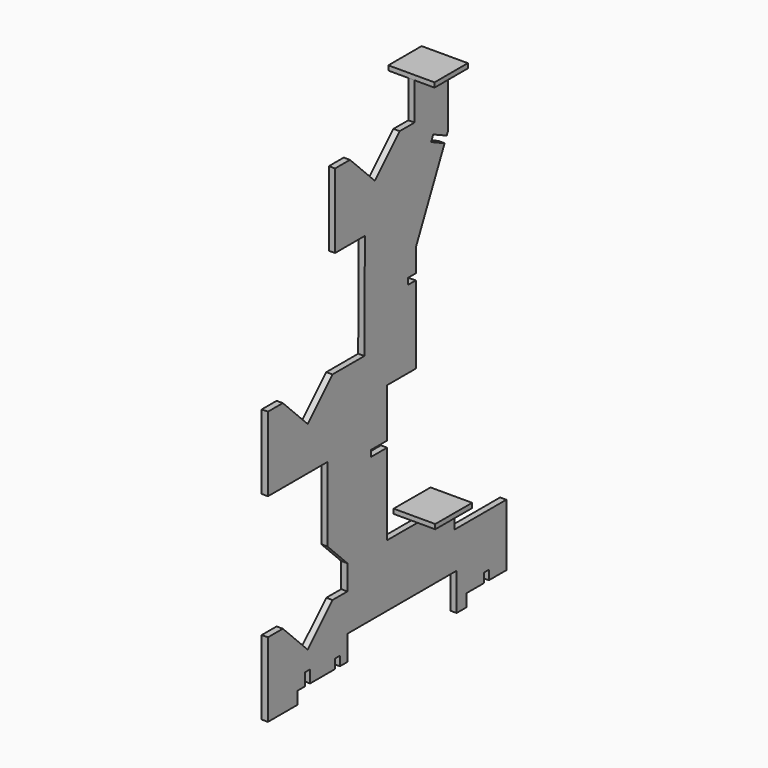
from build123d import *

# Parameters (mm, degrees)
F1_DEPTH = 6.35
F2_W     = 47.2422645885
F2_H     = 42.5958
F3_DEPTH = 4.7625
F4_W     = 42.5958
F4_H     = 47.244
F5_DEPTH = 4.7625


with BuildPart() as f1:
    # F0 (on Right) → F1 (new body)
    with BuildSketch(Plane.YZ):
        Polygon((-465.2879184003, 141.4630902397), (-497.0379184003, 173.2130902397), (-516.0879184003, 173.2130902397), (-516.0879184003, 97.0130902397), (-477.9879184003, 97.0130902397), (-477.9879184003, 109.7130902397), (-468.4629184003, 109.7130902397), (-468.4629184003, 122.4130902397), (-462.1129184003, 122.4130902397), (-462.1129184003, 109.7130902397), (-430.3629184003, 109.7130902397), (-430.3629184003, 119.2380902397), (-424.0129184003, 119.2380902397), (-424.0129184003, 109.7130902397), (-414.4879184003, 109.7130902397), (-414.4879877541, 135.1130902396), (-274.7879293955, 135.1130902399), (-274.7879293955, 97.0130902397), (-262.0879293955, 97.0130902397), (-262.0879293955, 109.7130902397), (-239.8629293955, 109.7130902397), (-239.8629293955, 119.2380902397), (-233.5129293955, 119.2380902397), (-233.5129293955, 109.7130902397), (-211.2879293955, 109.7130902397), (-211.2879293955, 173.2130902397), (-277.5491125955, 173.2130902397), (-277.5491125955, 198.5099470598), (-363.6878889013, 198.6978021826), (-363.6879131291, 282.0734624628), (-384.3254131291, 282.0734564659), (-384.3254149744, 288.4235590463), (-363.6879149744, 288.4235650433), (-363.6879294716, 338.3128917395), (-327.0437987701, 338.3128917395), (-327.0437987701, 417.7642809484), (-336.9670720469, 417.820658598), (-336.9309960292, 424.1705540806), (-327.0437987701, 424.1143813917), (-327.0437987701, 447.2134997982), (-290.1417002292, 526.3503055005), (-307.4068635722, 534.4011833867), (-304.7232376102, 540.1562378344), (-287.4580742671, 532.1053599482), (-286.0267591885, 535.1748250397), (-286.0267591885, 598.6748250397), (-328.6225591885, 598.6748250397), (-328.6167393038, 560.5747974944), (-347.6667393038, 560.5748078249), (-379.4288557591, 528.8369242932), (-411.1667393038, 560.5748422598), (-430.2167393038, 560.5748525903), (-430.2167393038, 484.3748525903), (-392.1167393038, 484.3748525903), (-392.7301085257, 376.4130902397), (-433.5379184003, 376.4130902397), (-465.2879184003, 344.6630902397), (-497.0379184003, 376.4130902397), (-516.0879184003, 376.4130902397), (-516.0879184003, 300.2130902397), (-439.8879184003, 300.2130902397), (-439.8878962575, 224.0128403354), (-414.4880763063, 198.6131600973), (-414.4880064489, 173.2130902397), (-433.5379184003, 173.2130902397), align=None)
    extrude(amount=F1_DEPTH)

    # F2 (on face) → F3 (join)
    with BuildSketch(Plane.XY.offset(598.6748250397)):
        with Locations((3.1749958943, -307.3246591885)):
            Rectangle(F2_W, F2_H)
    extrude(amount=F3_DEPTH)

    # F4 (on face) → F5 (join)
    with BuildSketch(Plane(origin=(0, 0.4315968749, 197.9037148545), x_dir=(1, 0, 0), z_dir=(0, 0.0021808375, 0.999997622))):
        with Locations((3.175, -301.6033705181)):
            Rectangle(F4_W, F4_H)
    extrude(amount=F5_DEPTH)


solid = f1.part
